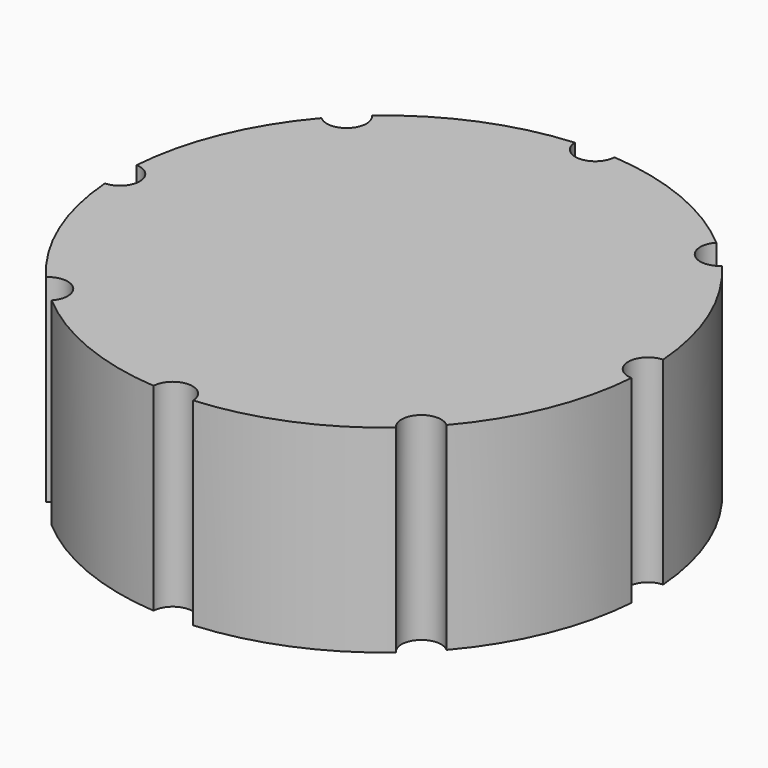
from build123d import *

# Parameters (mm, degrees)
CYLINDER001_R     = 1.5
CYLINDER001_DEPTH = 20
ARRAY_COUNT       = 8
CYLINDER_R        = 20
CYLINDER_DEPTH    = 15


with BuildPart() as array:
    # Cylinder001 → Cylinder001 (new body)
    with BuildSketch(Plane(origin=(20, 0, -2), x_dir=(1, 0, 0), z_dir=(0, 0, 1))):
        Circle(CYLINDER001_R)
    extrude(amount=CYLINDER001_DEPTH)

    # Array: Array ×8 about axis
    array_axis = Axis((0, 0, 0), (0, 0, 1))


with BuildPart() as array_1:
    add(array.part)
    for i in range(1, ARRAY_COUNT):
        add(array.part.rotate(array_axis, i * 360 / ARRAY_COUNT))


with BuildPart() as cut:
    # Cylinder → Cylinder (new body)
    with BuildSketch(Plane.XY):
        Circle(CYLINDER_R)
    extrude(amount=CYLINDER_DEPTH)

    # Cut: cut Array
    add(array_1.part, mode=Mode.SUBTRACT)


solid = cut.part
